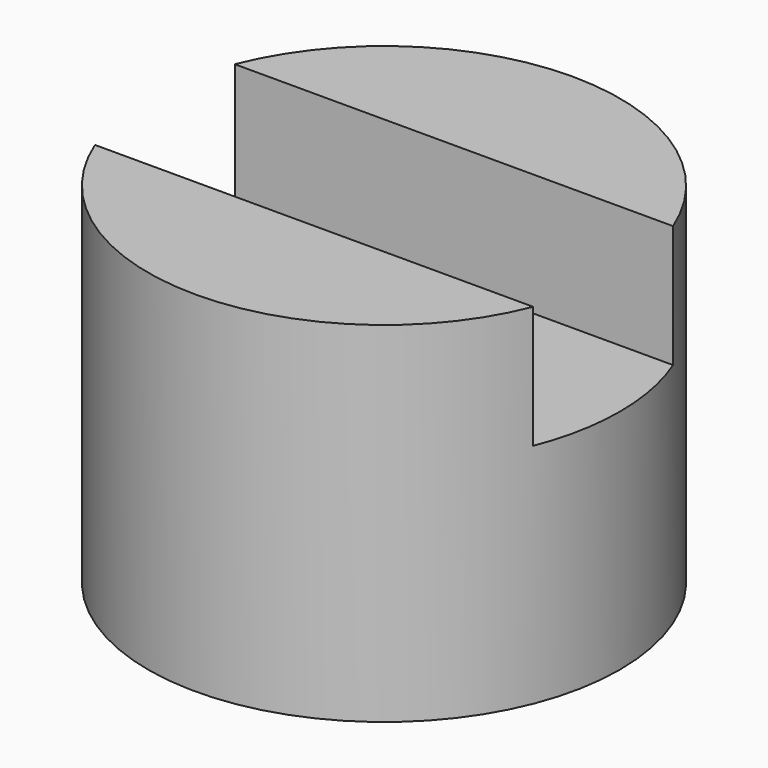
from build123d import *

# Parameters (mm, degrees)
BOX011_W          = 3
BOX011_H          = 1
BOX011_DEPTH      = 0.7
CYLINDER007_R     = 1.35
CYLINDER007_DEPTH = 2


with BuildPart() as cube007:
    # Box011 → Box011 (new body)
    with BuildSketch(Plane(origin=(-1.5, -0.5, 1.3), x_dir=(1, 0, 0), z_dir=(0, 0, 1))):
        with Locations((1.5, 0.5)):
            Rectangle(BOX011_W, BOX011_H)
    extrude(amount=BOX011_DEPTH)


with BuildPart() as cut011:
    # Cylinder007 → Cylinder007 (new body)
    with BuildSketch(Plane.XY):
        Circle(CYLINDER007_R)
    extrude(amount=CYLINDER007_DEPTH)

    # Cut011: cut Cube007
    add(cube007.part, mode=Mode.SUBTRACT)


with BuildPart() as cut011_1:
    # Cut011 placement: moved
    add(cut011.part.moved(Location((5.25, 4.1, 10))))


solid = cut011_1.part
